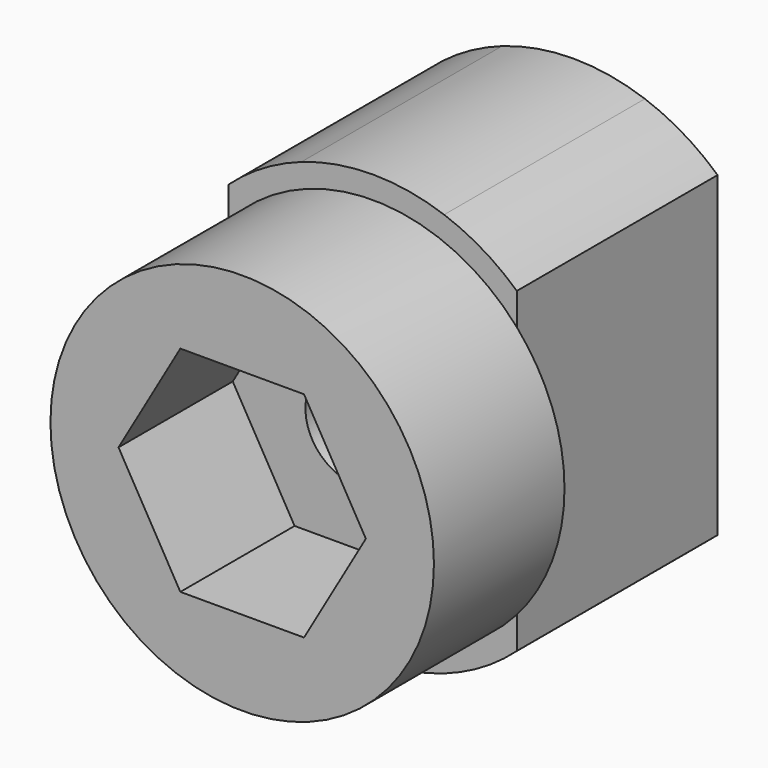
from build123d import *

# Parameters (mm, degrees)
F1_DEPTH = 6.15
F2_R     = 4.7
F3_DEPTH = 4
F6_DEPTH = 3.5
F7_R     = 1.25
F8_DEPTH = 5


with BuildPart() as f1:
    # F0 (on Front) → F1 (new body)
    with BuildSketch(Plane.XZ):
        with BuildLine():
            Line((-1.75, 3.88440617), (-1.75, 4.9497474683))
            ThreePointArc((-1.75, 4.9497474683), (-2.6941036669, 4.506029897), (-3.5318392809, 3.88440617))
            Line((-3.5318392809, 3.88440617), (-1.75, 3.88440617))
        make_face()
        with BuildLine():
            Line((-1.75, 3.88440617), (-3.5318392809, 3.88440617))
            Line((-3.5318392809, 3.88440617), (-3.5318392809, 2.3640243852))
            ThreePointArc((-3.5318392809, 2.3640243852), (-2.7465789328, 3.2432705971), (-1.75, 3.8729833462))
            Line((-1.75, 3.8729833462), (-1.75, 3.88440617))
        make_face()
        with BuildLine():
            ThreePointArc((-1.75, 3.8729833462), (-2.7465789328, 3.2432705971), (-3.5318392809, 2.3640243852))
            Line((-3.5318392809, 2.3640243852), (-3.5318392809, -2.3640243852))
            ThreePointArc((-3.5318392809, -2.3640243852), (-2.7465789328, -3.2432705971), (-1.75, -3.8729833462))
            Line((-1.75, -3.8729833462), (-1.75, 3.8729833462))
        make_face()
        with BuildLine():
            Line((-3.5318392809, -2.3640243852), (-3.5318392809, -3.88440617))
            Line((-3.5318392809, -3.88440617), (-1.75, -3.88440617))
            Line((-1.75, -3.88440617), (-1.75, -3.8729833462))
            ThreePointArc((-1.75, -3.8729833462), (-2.7465789328, -3.2432705971), (-3.5318392809, -2.3640243852))
        make_face()
        with BuildLine():
            ThreePointArc((-3.5318392809, -3.88440617), (-2.6941036669, -4.506029897), (-1.75, -4.9497474683))
            Line((-1.75, -4.9497474683), (-1.75, -3.88440617))
            Line((-1.75, -3.88440617), (-3.5318392809, -3.88440617))
        make_face()
        with BuildLine():
            Line((-1.75, -4.9497474683), (1.75, -4.9497474683))
            Line((1.75, -4.9497474683), (1.75, -3.88440617))
            Line((1.75, -3.88440617), (1.724496653, -3.88440617))
            ThreePointArc((1.724496653, -3.88440617), (0, -4.25), (-1.724496653, -3.88440617))
            Line((-1.724496653, -3.88440617), (-1.75, -3.88440617))
            Line((-1.75, -3.88440617), (-1.75, -4.9497474683))
        make_face()
        with BuildLine():
            ThreePointArc((-1.75, -4.9497474683), (0, -5.25), (1.75, -4.9497474683))
            Line((1.75, -4.9497474683), (-1.75, -4.9497474683))
        make_face()
        with BuildLine():
            ThreePointArc((1.75, -4.9497474683), (2.6941036669, -4.506029897), (3.5318392809, -3.88440617))
            Line((3.5318392809, -3.88440617), (1.75, -3.88440617))
            Line((1.75, -3.88440617), (1.75, -4.9497474683))
        make_face()
        with BuildLine():
            Line((1.75, -3.88440617), (3.5318392809, -3.88440617))
            Line((3.5318392809, -3.88440617), (3.5318392809, -2.3640243852))
            ThreePointArc((3.5318392809, -2.3640243852), (2.7465789328, -3.2432705971), (1.75, -3.8729833462))
            Line((1.75, -3.8729833462), (1.75, -3.88440617))
        make_face()
        with BuildLine():
            Line((3.5318392809, -2.3640243852), (3.5318392809, 2.3640243852))
            ThreePointArc((3.5318392809, 2.3640243852), (2.7465789328, 3.2432705971), (1.75, 3.8729833462))
            Line((1.75, 3.8729833462), (1.75, -3.8729833462))
            ThreePointArc((1.75, -3.8729833462), (2.7465789328, -3.2432705971), (3.5318392809, -2.3640243852))
        make_face()
        with BuildLine():
            Line((3.5318392809, 2.3640243852), (3.5318392809, 3.88440617))
            Line((3.5318392809, 3.88440617), (1.75, 3.88440617))
            Line((1.75, 3.88440617), (1.75, 3.8729833462))
            ThreePointArc((1.75, 3.8729833462), (2.7465789328, 3.2432705971), (3.5318392809, 2.3640243852))
        make_face()
        with BuildLine():
            Line((1.75, 3.88440617), (3.5318392809, 3.88440617))
            ThreePointArc((3.5318392809, 3.88440617), (2.6941036669, 4.506029897), (1.75, 4.9497474683))
            Line((1.75, 4.9497474683), (1.75, 3.88440617))
        make_face()
        with BuildLine():
            Line((1.75, 3.88440617), (1.75, 4.9497474683))
            Line((1.75, 4.9497474683), (-1.75, 4.9497474683))
            Line((-1.75, 4.9497474683), (-1.75, 3.88440617))
            Line((-1.75, 3.88440617), (-1.724496653, 3.88440617))
            ThreePointArc((-1.724496653, 3.88440617), (0, 4.25), (1.724496653, 3.88440617))
            Line((1.724496653, 3.88440617), (1.75, 3.88440617))
        make_face()
        with BuildLine():
            Line((-1.75, 4.9497474683), (1.75, 4.9497474683))
            ThreePointArc((1.75, 4.9497474683), (0, 5.25), (-1.75, 4.9497474683))
        make_face()
    extrude(amount=-F1_DEPTH)

    # F2 (on Front) → F3 (join)
    with BuildSketch(Plane.XZ):
        Circle(F2_R)
    extrude(amount=F3_DEPTH)

    # F5 (on offset) → F6 (cut)
    with BuildSketch(Plane.XZ.offset(4)):
        Polygon((-1.5155444566, -2.625), (1.5155444566, -2.625), (3.0310889132, 0), (1.5155444566, 2.625), (-1.5155444566, 2.625), (-3.0310889132, 0), align=None)
    extrude(amount=-F6_DEPTH, mode=Mode.SUBTRACT)

    # F7 (on offset) → F8 (cut)
    with BuildSketch(Plane.XZ.offset(4)):
        Circle(F7_R)
    extrude(amount=-F8_DEPTH, mode=Mode.SUBTRACT)


solid = f1.part
